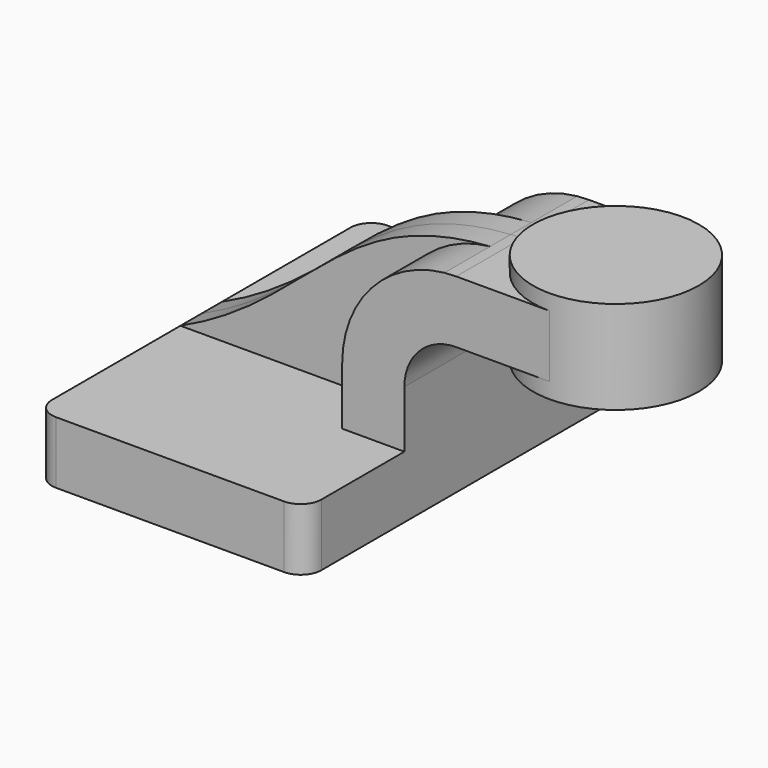
from build123d import *

# Parameters (mm, degrees)
F1_DEPTH = 63.5
F0_W     = 25.4
F0_H     = 19.05
F2_DEPTH = 25.4
F3_DEPTH = 7.9375
F4_R     = 6.35


with BuildPart() as f1:
    # F0 (on Front) → F1 (new body, symmetric)
    with BuildSketch(Plane.XZ):
        Polygon((22.225, 9.525), (-41.275, 9.525), (-41.275, -9.525), (41.275, -9.525), (41.275, 9.525), align=None)
    extrude(amount=F1_DEPTH, both=True)

    # F0 (on Front) → F2 (join, symmetric)
    with BuildSketch(Plane.XZ):
        with BuildLine():
            Line((22.225, 27.0002), (22.225, 9.525))
            Line((22.225, 9.525), (41.275, 9.525))
            Line((41.275, 9.525), (41.275, 27.0002))
            ThreePointArc((41.275, 27.0002), (45.9246798487, 38.2255201513), (57.15, 42.8752))
            Line((57.15, 42.8752), (60.325, 42.8752))
            Line((60.325, 42.8752), (60.325, 61.9252))
            Line((60.325, 61.9252), (57.15, 61.9252))
            add(Edge.make_bspline(
                [(53.5478773924, 61.7389440435), (54.7236223027, 61.8188750889), (55.923949642, 61.8811762152), (57.15, 61.9252)],
                knots=[108.7572829366, 108.7572829366, 108.7572829366, 108.7572829366, 111.5045361635, 111.5045361635, 111.5045361635, 111.5045361635], degree=3))
            ThreePointArc((53.5478773924, 61.7389440435), (31.2119993343, 50.3877126182), (22.225, 27.0002))
        make_face()
        with Locations((73.025, 52.4002)):
            Rectangle(F0_W, F0_H)
    extrude(amount=F2_DEPTH, both=True)

    # F0 (on Front) → F3 (join, symmetric)
    with BuildSketch(Plane.XZ):
        with BuildLine():
            add(Edge.make_bspline(
                [(-41.275, 9.525), (-1.0169351027, 27.7810963439), (7.0029063578, 58.5746622675), (53.5478773924, 61.7389440435)],
                knots=[0, 0, 0, 0, 108.7572829366, 108.7572829366, 108.7572829366, 108.7572829366], degree=3))
            Line((-41.275, 9.525), (22.225, 9.525))
            Line((22.225, 9.525), (22.225, 27.0002))
            ThreePointArc((22.225, 27.0002), (31.2119993343, 50.3877126182), (53.5478773924, 61.7389440435))
        make_face()
    extrude(amount=F3_DEPTH, both=True)

    # F4
    f4_edges = [f1.edges().sort_by_distance(p)[0] for p in [
        (-41.275, -63.5, 0),
        (41.275, -63.5, 0),
        (41.275, 63.5, 0),
        (-41.275, 63.5, 0),
    ]]
    fillet(f4_edges, radius=F4_R)

    # F0 (on Front) → F5 (revolve)
    with BuildSketch(Plane.XZ):
        Polygon((85.725, 66.675), (85.725, 61.9252), (85.725, 42.8752), (85.725, 38.1), (111.125, 38.1), (111.125, 66.675), align=None)
    revolve(axis=Axis((85.725, 0, 52.3875), (0, 0, 1)))


solid = f1.part
